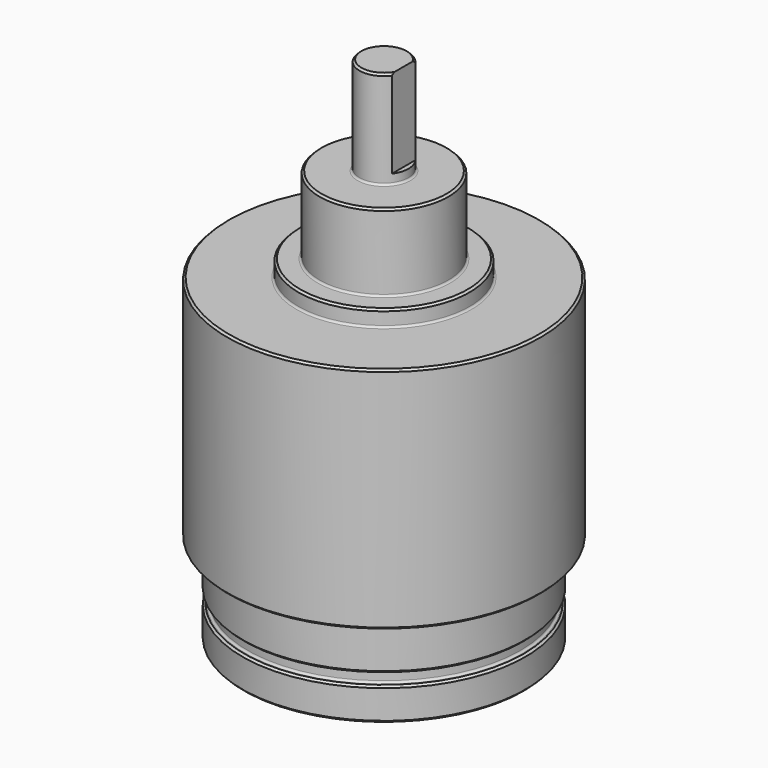
from build123d import *

# Parameters (mm, degrees)
F3_W     = 9.525
F3_H     = 17.145
F4_DEPTH = 26.671
F5_R     = 0.381
F6_SIZE  = 0.381


with BuildPart() as f1:
    # F0 (on Front) → F1 (revolve)
    with BuildSketch(Plane.XZ):
        Polygon((0, -48.375), (0, 0), (-4.7625, 0), (-4.7625, -19.05), (-12.5, -19.05), (-12.5, -34.05), (-16.6275, -34.05), (-16.6275, -37.225), (-30.48, -37.225), (-30.48, -81.675), (-27.5, -81.675), (-27.5, -90.675), (-26.5, -90.675), (-26.5, -92.825), (-27.5, -92.825), (-27.5, -99.175), (-20.32, -99.175), (-20.32, -48.375), align=None)
    revolve(axis=Axis((0, 0, -24.1875), (0, 0, 1)))

    # F3 (on offset) → F4 (cut, through all)
    with BuildSketch(Plane.YZ.offset(3.81)):
        with Locations((0, -8.5725)):
            Rectangle(F3_W, F3_H)
    extrude(amount=F4_DEPTH, mode=Mode.SUBTRACT)

    # F5
    f5_edges = [f1.edges().sort_by_distance(p)[0] for p in [
        (12.5, 0, -34.05),
        (16.6275, 0, -37.225),
        (27.5, 0, -81.675),
        (26.5, 0, -90.675),
        (26.5, 0, -92.825),
        (4.7625, 0, -19.05),
    ]]
    fillet(f5_edges, radius=F5_R)

    # F6
    f6_edges = [f1.edges().sort_by_distance(p)[0] for p in [
        (12.5, 0, -19.05),
        (-1.506035, -4.518104, 0),
        (30.48, 0, -37.225),
        (30.48, 0, -81.675),
        (27.5, 0, -99.175),
        (27.5, 0, -90.675),
        (27.5, 0, -92.825),
        (16.6275, 0, -34.05),
    ]]
    chamfer(f6_edges, length=F6_SIZE)


solid = f1.part
